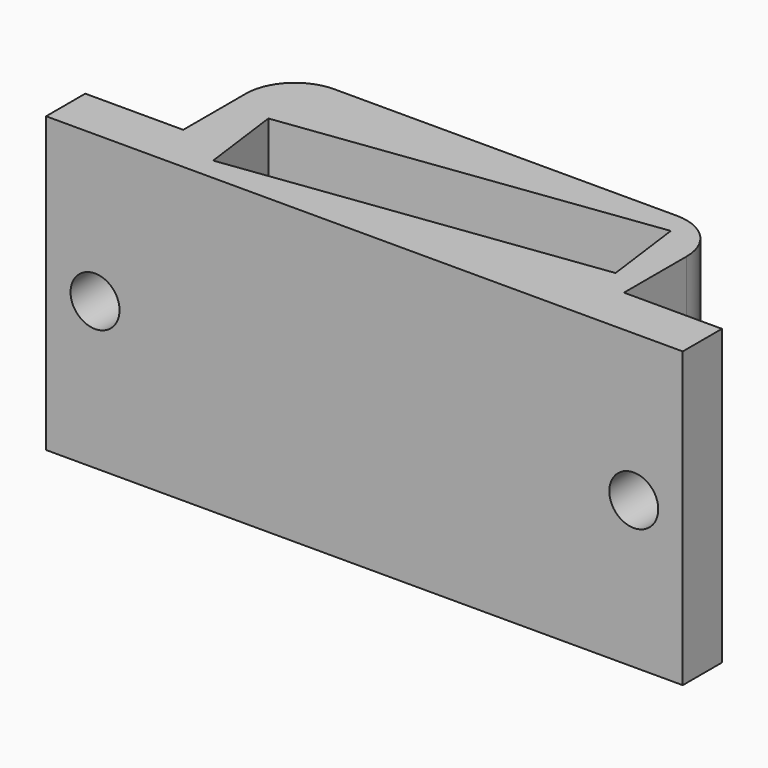
from build123d import *

# Parameters (mm, degrees)
F1_DEPTH = 30
F2_DEPTH = 3
F3_R     = 5
F5_R     = 2.5
F4_R     = 2.5
F6_DEPTH = 25


with BuildPart() as f1:
    # F0 (on Top) → F1 (new body)
    with BuildSketch(Plane.XY):
        Polygon((-32.5, -9), (32.5, -9), (32.5, -4), (22.5, -4), (22.5, 9), (-22.5, 9), (-22.5, -4), (-32.5, -4), align=None)
        Polygon((18.7564, 6.652187), (19.862741, -1.775506), (-17.318257, -6.656426), (-18.424599, 1.771267), align=None, mode=Mode.SUBTRACT)
    extrude(amount=F1_DEPTH)

    # F0 (on Top) → F2 (join)
    with BuildSketch(Plane.XY):
        Polygon((-17.318257, -6.656426), (19.862741, -1.775506), (18.7564, 6.652187), (-18.424599, 1.771267), align=None)
    extrude(amount=F2_DEPTH)

    # F3
    f3_edges = [f1.edges().sort_by_distance(p)[0] for p in [
        (22.5, 9, 15),
        (-22.5, 9, 15),
    ]]
    fillet(f3_edges, radius=F3_R)

    # F5 (on face) + F4 (on face) → F6 (cut)
    with BuildSketch(Plane(origin=(0, -4, 0), x_dir=(-1, 0, 0), z_dir=(0, 1, 0))):
        with Locations((27.5, 15)):
            Circle(F5_R)
    with BuildSketch(Plane(origin=(0, -4, 0), x_dir=(-1, 0, 0), z_dir=(0, 1, 0))):
        with Locations((-27.5, 15)):
            Circle(F4_R)
    extrude(amount=-F6_DEPTH, mode=Mode.SUBTRACT)


solid = f1.part
